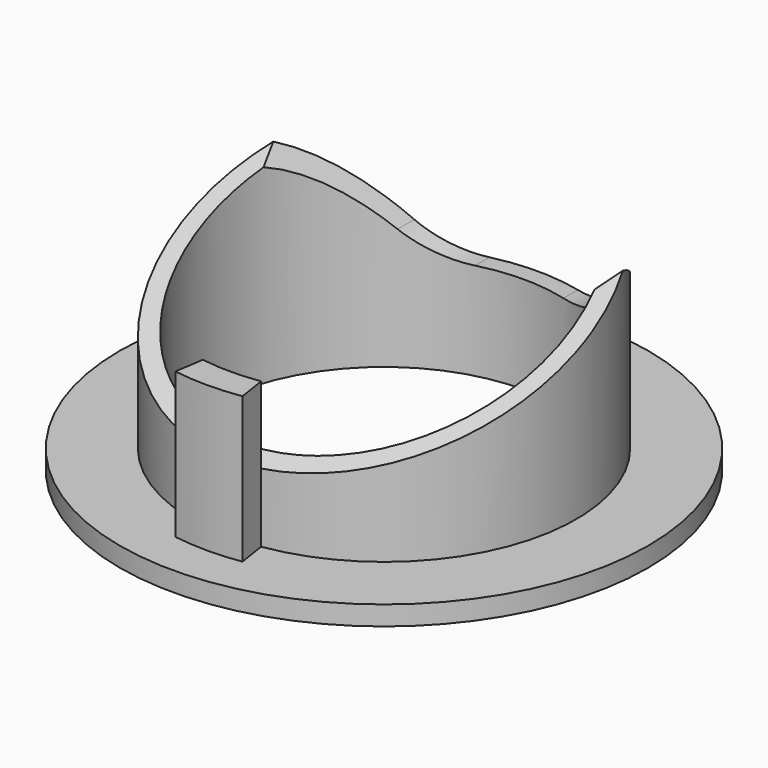
from build123d import *

# Parameters (mm, degrees)
F0_R     = 17.272
F0_R_2   = 11.43
F1_DEPTH = 1.27
F2_R     = 12.573
F2_R_2   = 11.43
F3_DEPTH = 11.811
F5_DEPTH = 17.273
F7_DEPTH = 12.7
F9_DEPTH = 9.525


with BuildPart() as f1:
    # F0 (on Top) → F1 (new body)
    with BuildSketch(Plane.XY):
        Circle(F0_R)
        Circle(F0_R_2, mode=Mode.SUBTRACT)
    extrude(amount=F1_DEPTH)

    # F2 (on face) → F3 (join)
    with BuildSketch(Plane.XY.offset(1.27)):
        Circle(F2_R)
        Circle(F2_R_2, mode=Mode.SUBTRACT)
    extrude(amount=F3_DEPTH)

    # F4 (on Front) → F5 (cut, through all)
    with BuildSketch(Plane.XZ):
        with BuildLine():
            Line((-2.888614, 6.35), (2.888614, 6.35))
            ThreePointArc((2.888614, 6.35), (4.900767, 6.765492), (6.583774, 7.944))
            Line((6.583774, 7.944), (11.43, 13.081))
            Line((11.43, 13.081), (-11.43, 13.081))
            Line((-11.43, 13.081), (-6.583774, 7.944))
            ThreePointArc((-6.583774, 7.944), (-4.900767, 6.765492), (-2.888614, 6.35))
        make_face()
    extrude(amount=-F5_DEPTH, mode=Mode.SUBTRACT)

    # F6 (on Right) → F7 (cut, symmetric)
    with BuildSketch(Plane.YZ):
        Polygon((-12.573, 5.715), (5.237884, 13.081), (-12.573, 13.081), align=None)
    extrude(amount=F7_DEPTH, both=True, mode=Mode.SUBTRACT)

    # F8 (on face) → F9 (join)
    with BuildSketch(Plane.XY.offset(1.27)):
        with BuildLine():
            Line((2.193636, -14.310851), (1.905, -12.427844))
            ThreePointArc((1.905, -12.427844), (0, -12.573), (-1.905, -12.427844))
            Line((-1.905, -12.427844), (-2.193636, -14.310851))
            ThreePointArc((-2.193636, -14.310851), (0, -14.478), (2.193636, -14.310851))
        make_face()
    extrude(amount=F9_DEPTH)


solid = f1.part
